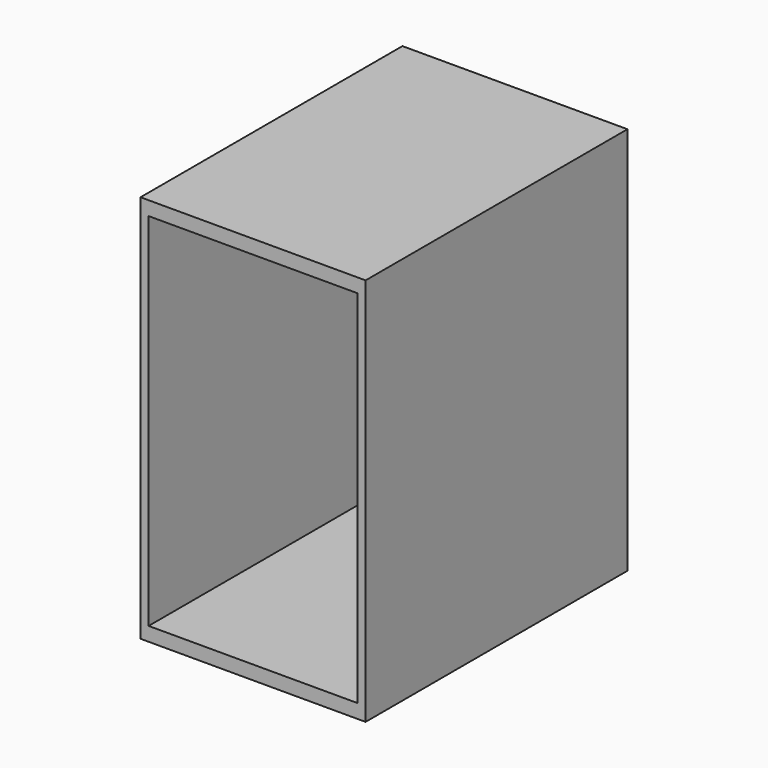
from build123d import *

# Parameters (mm, degrees)
F0_W     = 110
F0_H     = 190
F0_W_2   = 102.098083
F0_H_2   = 176.351235
F1_DEPTH = 160
F2_W     = 103.17653
F2_H     = 175.133594
F3_DEPTH = 10


with BuildPart() as f1:
    # F0 (on Front) → F1 (new body)
    with BuildSketch(Plane.XZ):
        with Locations((-7.087325, -3.817271)):
            Rectangle(F0_W, F0_H)
        with Locations((-7.087326, -3.817271)):
            Rectangle(F0_W_2, F0_H_2, mode=Mode.SUBTRACT)
    extrude(amount=F1_DEPTH)

    # F2 (on Front) → F3 (join)
    with BuildSketch(Plane.XZ):
        with Locations((-7.804865, -3.055822)):
            Rectangle(F2_W, F2_H)
    extrude(amount=F3_DEPTH)


solid = f1.part
